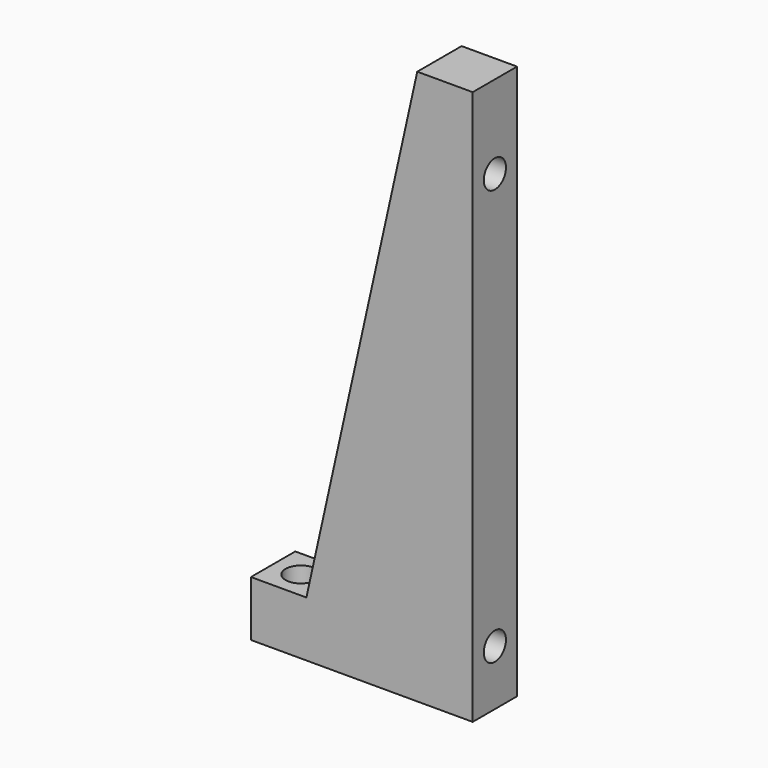
from build123d import *

# Parameters (mm, degrees)
F1_DEPTH = 10
F2_R     = 2.75
F3_DEPTH = 25
F4_R     = 2.5
F5_DEPTH = 10


with BuildPart() as f1:
    # F0 (on Front) → F1 (new body)
    with BuildSketch(Plane.XZ):
        Polygon((0, 10), (0, 0), (40, 0), (40, 100), (30, 100), (10, 10), align=None)
    extrude(amount=F1_DEPTH)

    # F2 (on face) → F3 (cut)
    with BuildSketch(Plane.XY.offset(10)):
        with Locations((5, -5)):
            Circle(F2_R)
    extrude(amount=-F3_DEPTH, mode=Mode.SUBTRACT)

    # F4 (on face) → F5 (cut)
    with BuildSketch(Plane.YZ.offset(40)):
        with Locations((-5, 85)):
            Circle(F4_R)
        with Locations((-5, 10)):
            Circle(F4_R)
    extrude(amount=-F5_DEPTH, mode=Mode.SUBTRACT)


solid = f1.part
